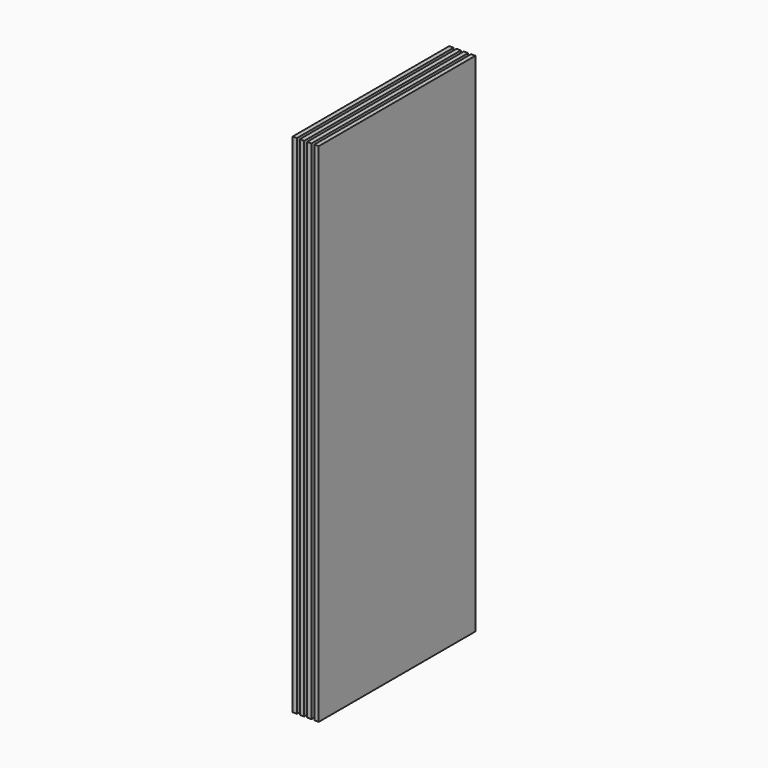
from build123d import *

# Parameters (mm, degrees)
F0_W     = 38
F0_H     = 4400
F1_DEPTH = 850


with BuildPart() as f1:
    # F0 (on Front) → F1 (new body, symmetric)
    with BuildSketch(Plane.XZ):
        with Locations((1919, 4461)):
            Rectangle(F0_W, F0_H)
        with Locations((1982, 4461)):
            Rectangle(F0_W, F0_H)
        with Locations((2045, 4461)):
            Rectangle(F0_W, F0_H)
        with Locations((2108, 4461)):
            Rectangle(F0_W, F0_H)
    extrude(amount=F1_DEPTH, both=True)


solid = f1.part
